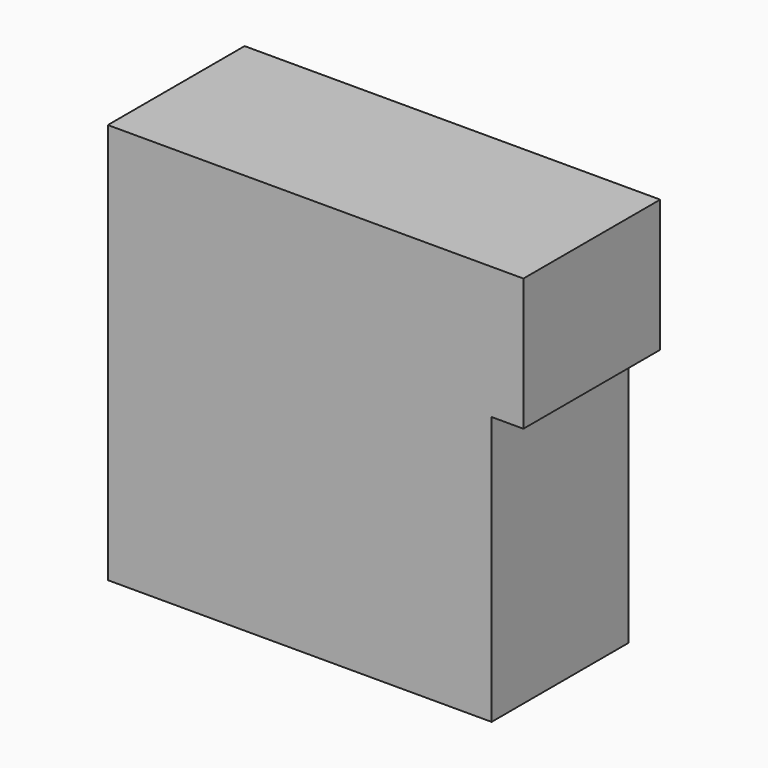
from build123d import *

# Parameters (mm, degrees)
F0_W     = 11.2268552184
F0_H     = 15.0676164776
F0_W_2   = 3.2498771325
F0_H_2   = 23.4877597541
F0_W_3   = 11.2268533558
F0_H_3   = 7.9769734293
F0_W_4   = 6.2043135986
F0_W_5   = 7.6815309003
F0_H_4   = 17.4311641604
F0_W_6   = 2.3635476828
F0_H_5   = 17.4311622977
F0_W_7   = 12.4086262658
F0_H_6   = 10.6359645724
F0_W_8   = 9.4541944563
F0_H_7   = 39.2939858139
F0_W_9   = 6.7952014506
F0_H_8   = 28.9534609765
F0_H_9   = 20.0901571661
F0_W_10  = 11.5222912282
F0_H_10  = 31.3170077279
F0_W_11  = 17.4311641604
F0_H_11  = 1.7726588994
F0_W_12  = 0.2954434603
F0_W_13  = 2.9544346035
F0_H_12  = 3.988484852
F0_H_13  = 1.4772191644
F0_W_14  = 2.3635486141
F0_H_14  = 0.5908887833
F1_DEPTH = 25.4
F3_DEPTH = 25.4


with BuildPart() as f1:
    # F0 (on Front) → F1 (new body)
    with BuildSketch(Plane.XZ):
        Polygon((46.3846214116, 12.55635079), (39.2939783633, 12.55635079), (39.2939783633, -8.7155802175), (39.2939783633, -24.6695280075), (39.2939783633, -26.1467471719), (39.2939783633, -43.5779094696), (36.9304306805, -43.5779094696), (36.9304306805, -26.1467471719), (17.1357225627, -26.1467471719), (14.7721739486, -26.1467471719), (13.8858417049, -26.1467471719), (13.8858417049, -27.9194060713), (-3.5453224555, -27.9194060713), (-3.5453224555, -26.1467471719), (-26.8853586167, -26.1467471719), (-26.8853586167, -22.6014237851), (-36.3395474851, -22.6014237851), (-36.3395474851, 26.4421943575), (-56.4297065139, 26.4421943575), (-56.4297065139, -48.0095632374), (7.6815309003, -48.0095632374), (7.6815309003, -37.373598665), (20.0901571661, -37.373598665), (20.0901571661, -48.0095632374), (57.61147663, -48.0095632374), (57.61147663, 16.6925583035), (46.3846214116, 16.6925583035), align=None)
        with Locations((51.9980490208, 24.2263665423)):
            Rectangle(F0_W, F0_H)
        with Locations((1.6249385662, 11.743879877)):
            Rectangle(F0_W_2, F0_H_2)
        Polygon((3.2498771325, 0), (0, 0), (-6.2043135986, 0), (-6.2043135986, 23.4877597541), (0, 23.4877597541), (0, 26.4421943575), (-19.7947137058, 26.4421943575), (-19.7947137058, 6.3520371914), (-20.0901571661, 6.3520371914), (-20.0901571661, -22.6014237851), (-26.8853586167, -22.6014237851), (-26.8853586167, -26.1467471719), (-3.5453224555, -26.1467471719), (-3.5453224555, -22.6014237851), (-9.158748202, -22.6014237851), (-9.158748202, -12.5563461334), (7.6815309003, -12.5563461334), (7.6815309003, -14.6244503558), (13.8858417049, -14.6244503558), (13.8858417049, -26.1467471719), (14.7721739486, -26.1467471719), (14.7721739486, -25.5558583885), (14.7721739486, -8.7155802175), (39.2939783633, -8.7155802175), (39.2939783633, 12.55635079), (27.7716871351, 12.55635079), (27.7716871351, 8.1246979535), (31.3170067966, 8.1246979535), (31.3170067966, -6.6474759951), (9.1587463394, -6.6474759951), (9.1587463394, 0), align=None)
        Polygon((-9.158748202, -22.6014237851), (-3.5453224555, -22.6014237851), (-3.5453224555, -14.6244503558), (7.6815309003, -14.6244503558), (7.6815309003, -12.5563461334), (-9.158748202, -12.5563461334), align=None)
        with Locations((2.0681042224, -18.6129370704)):
            Rectangle(F0_W_3, F0_H_3)
        Polygon((-20.0901571661, 26.4421943575), (-19.7947137058, 26.4421943575), (-19.7947137058, 54.5093230903), (-26.8853586167, 54.5093230903), (-26.8853586167, 26.4421943575), align=None)
        with Locations((-3.1021567993, 11.743879877)):
            Rectangle(F0_W_4, F0_H_2)
        with Locations((3.8407654501, 35.1577764377)):
            Rectangle(F0_W_5, F0_H_4)
        Polygon((24.8172525316, 0), (9.1587463394, 0), (9.1587463394, -6.6474759951), (31.3170067966, -6.6474759951), (31.3170067966, 8.1246979535), (27.7716871351, 8.1246979535), (27.7716871351, 0), (27.7716871351, -3.988484852), (24.8172525316, -3.988484852), align=None)
        with Locations((38.1122045219, -34.8623283207)):
            Rectangle(F0_W_6, F0_H_5)
        Polygon((9.1587463394, 8.1246979535), (9.1587463394, 0), (24.8172525316, 0), (27.7716871351, 0), (27.7716871351, 8.1246979535), align=None)
        with Locations((13.8858440332, -42.6915809512)):
            Rectangle(F0_W_7, F0_H_6)
        with Locations((62.3385738581, 51.407167688)):
            Rectangle(F0_W_8, F0_H_7)
        Polygon((3.2498771325, 23.4877597541), (3.2498771325, 0), (9.1587463394, 0), (9.1587463394, 8.1246979535), (27.7716871351, 8.1246979535), (27.7716871351, 12.55635079), (27.7716871351, 43.8733585179), (7.6815309003, 43.8733585179), (7.6815309003, 26.4421943575), (0, 26.4421943575), (0, 23.4877597541), align=None)
        with Locations((-23.4877578914, -8.1246932968)):
            Rectangle(F0_W_9, F0_H_8)
        Polygon((-26.8853586167, 6.3520371914), (-26.8853586167, 26.4421943575), (-36.3395474851, 26.4421943575), (-36.3395474851, -22.6014237851), (-26.8853586167, -22.6014237851), align=None)
        Polygon((-26.8853586167, 54.5093230903), (-19.7947137058, 54.5093230903), (7.6815309003, 54.5093230903), (7.6815309003, 61.5999698639), (-56.4297065139, 61.5999698639), (-56.4297065139, 26.4421943575), (-36.3395474851, 26.4421943575), (-26.8853586167, 26.4421943575), align=None)
        Polygon((-3.5453224555, -22.6014237851), (-3.5453224555, -26.1467471719), (13.8858417049, -26.1467471719), (13.8858417049, -14.6244503558), (7.6815309003, -14.6244503558), (7.6815309003, -22.6014237851), align=None)
        with Locations((-23.4877578914, 16.3971157745)):
            Rectangle(F0_W_9, F0_H_9)
        Polygon((39.2939783633, -24.6695280075), (39.2939783633, -8.7155802175), (14.7721739486, -8.7155802175), (14.7721739486, -25.5558583885), (17.1357225627, -25.5558583885), (17.1357225627, -26.1467471719), (36.9304306805, -26.1467471719), (36.9304306805, -24.6695280075), align=None)
        Polygon((39.2939783633, 43.8733585179), (39.2939783633, 12.55635079), (46.3846214116, 12.55635079), (46.3846214116, 16.6925583035), (46.3846214116, 31.7601747811), (46.3846214116, 43.8733585179), align=None)
        Polygon((7.6815309003, 61.5999698639), (7.6815309003, 54.5093230903), (39.2939783633, 54.5093230903), (39.2939783633, 43.8733585179), (46.3846214116, 43.8733585179), (46.3846214116, 31.7601747811), (57.61147663, 31.7601747811), (57.61147663, 71.0541605949), (-56.4297065139, 71.0541605949), (-56.4297065139, 61.5999698639), align=None)
        Polygon((7.6815309003, 54.5093230903), (7.6815309003, 43.8733585179), (27.7716871351, 43.8733585179), (39.2939783633, 43.8733585179), (39.2939783633, 54.5093230903), align=None)
        with Locations((33.5328327492, 28.2148546539)):
            Rectangle(F0_W_10, F0_H_10)
        Polygon((-19.7947137058, 26.4421943575), (0, 26.4421943575), (0, 43.8733585179), (7.6815309003, 43.8733585179), (7.6815309003, 54.5093230903), (-19.7947137058, 54.5093230903), align=None)
        with Locations((5.1702596247, -27.0330766216)):
            Rectangle(F0_W_11, F0_H_11)
        with Locations((-19.942435436, 16.3971157745)):
            Rectangle(F0_W_12, F0_H_9)
        with Locations((26.2944698334, -1.994242426)):
            Rectangle(F0_W_13, F0_H_12)
        with Locations((38.1122045219, -25.4081375897)):
            Rectangle(F0_W_6, F0_H_13)
        with Locations((15.9539482556, -25.8513027802)):
            Rectangle(F0_W_14, F0_H_14)
    extrude(amount=F1_DEPTH)

    # F2 (on face) → F3 (join)
    with BuildSketch(Plane.XZ.offset(25.4)):
        Polygon((-56.4297065139, -48.0095632374), (57.61147663, -48.0095632374), (57.61147663, 31.7601747811), (67.0656710863, 31.7601747811), (67.0656710863, 71.0541605949), (-56.4297065139, 71.0541605949), align=None)
    extrude(amount=F3_DEPTH)


solid = f1.part
